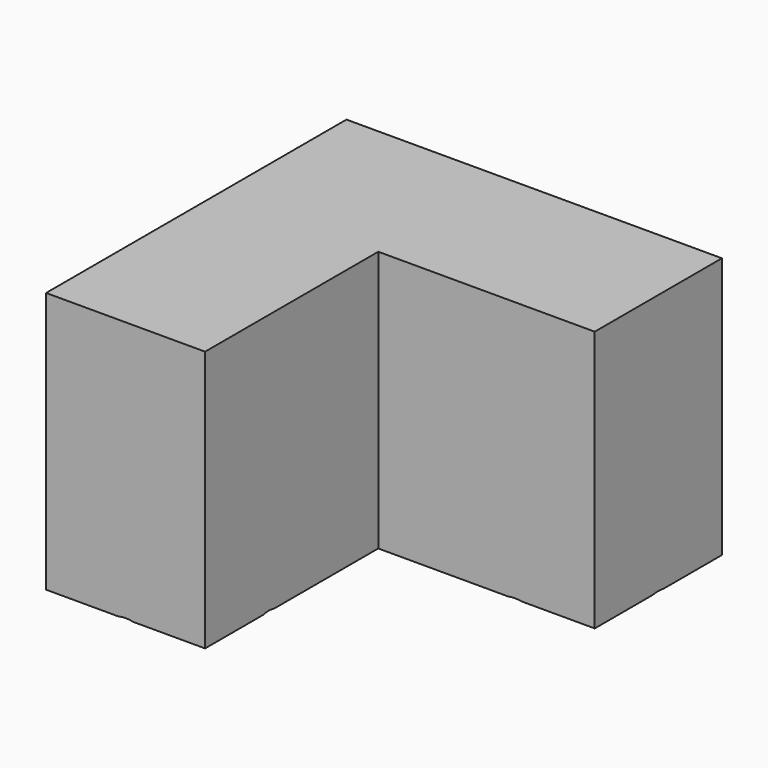
from build123d import *

# Parameters (mm, degrees)
F0_W     = 10.65
F0_H     = 10.7820915088
F0_H_2   = 10.5179084912
F1_DEPTH = 35
F5_R     = 3.7
F6_DEPTH = 25
F7_R     = 3.7
F8_DEPTH = 25


with BuildPart() as f1:
    # F0 (on Top) → F1 (new body)
    with BuildSketch(Plane.XY):
        with Locations((-5.325, 15.9089542456)):
            Rectangle(F0_W, F0_H)
        with Locations((5.325, 15.9089542456)):
            Rectangle(F0_W, F0_H)
        with BuildLine():
            Line((28.999999983, 21.3), (10.65, 21.3))
            Line((10.65, 21.3), (10.65, 10.5179084912))
            Line((10.65, 10.5179084912), (18.3508191943, 10.5179084912))
            ThreePointArc((18.3508191943, 10.5179084912), (21.4227552913, 18.1338400989), (28.999999983, 21.3))
        make_face()
        with BuildLine():
            Line((39.65, 21.3), (28.999999983, 21.3))
            ThreePointArc((28.999999983, 21.3), (36.5306872136, 18.1806872257), (39.65, 10.65))
            Line((39.65, 10.65), (39.65, 21.3))
        make_face()
        with BuildLine():
            Line((39.65, 0), (39.65, 10.65))
            ThreePointArc((39.65, 10.65), (36.5306872196, 3.1193127804), (29, 0))
            Line((29, 0), (39.65, 0))
        make_face()
        with BuildLine():
            Line((18.3508191943, 10.5179084912), (10.65, 10.5179084912))
            Line((10.65, 10.5179084912), (10.65, 0))
            Line((10.65, 0), (29, 0))
            ThreePointArc((29, 0), (21.5161598951, 3.0727552973), (18.3508191943, 10.5179084912))
        make_face()
        with Locations((5.325, 5.2589542456)):
            Rectangle(F0_W, F0_H_2)
        with Locations((-5.325, 5.2589542456)):
            Rectangle(F0_W, F0_H_2)
        with BuildLine():
            Line((0, 0), (-10.65, 0))
            Line((-10.65, 0), (-10.65, -18.3500000446))
            ThreePointArc((-10.65, -18.3500000446), (-7.5306872354, -10.8193127961), (0, -7.7))
            Line((0, -7.7), (0, 0))
        make_face()
        with BuildLine():
            Line((10.65, 0), (0, 0))
            Line((0, 0), (0, -7.7))
            ThreePointArc((0, -7.7), (7.5306872196, -10.8193127804), (10.65, -18.35))
            Line((10.65, -18.35), (10.65, 0))
        make_face()
        with BuildLine():
            ThreePointArc((0, -29), (-7.5306872039, -25.8806872354), (-10.65, -18.3500000446))
            Line((-10.65, -18.3500000446), (-10.65, -29))
            Line((-10.65, -29), (0, -29))
        make_face()
        with BuildLine():
            ThreePointArc((10.65, -18.35), (7.5306872196, -25.8806872196), (0, -29))
            Line((0, -29), (10.65, -29))
            Line((10.65, -29), (10.65, -18.35))
        make_face()
        with BuildLine():
            ThreePointArc((0, -7.7), (-7.5306872354, -10.8193127961), (-10.65, -18.3500000446))
            ThreePointArc((-10.65, -18.3500000446), (-7.5306872039, -25.8806872354), (0, -29))
            ThreePointArc((0, -29), (7.5306872196, -25.8806872196), (10.65, -18.35))
            ThreePointArc((10.65, -18.35), (7.5306872196, -10.8193127804), (0, -7.7))
        make_face()
        with BuildLine():
            ThreePointArc((39.65, 10.65), (36.5306872136, 18.1806872257), (28.999999983, 21.3))
            ThreePointArc((28.999999983, 21.3), (21.4227552913, 18.1338400989), (18.3508191943, 10.5179084912))
            ThreePointArc((18.3508191943, 10.5179084912), (21.5161598951, 3.0727552973), (29, 0))
            ThreePointArc((29, 0), (36.5306872196, 3.1193127804), (39.65, 10.65))
        make_face()
    extrude(amount=F1_DEPTH)

    # F2 (on Right) → F3 (revolve, cut)
    with BuildSketch(Plane.YZ):
        with BuildLine():
            Line((-18.35, 0), (-18.35, 8.7915472686))
            ThreePointArc((-18.35, 8.7915472686), (-24.8692408708, 5.8217661701), (-29.0438234806, 0))
            Line((-29.0438234806, 0), (-18.35, 0))
        make_face()
    revolve(axis=Axis((0, -18.35, 6.2414296837), (0, 0, 1)), mode=Mode.SUBTRACT)

    # F5 (on Top) → F6 (cut)
    with BuildSketch(Plane.XY):
        with Locations((0, -18.35)):
            Circle(F5_R)
    extrude(amount=F6_DEPTH, mode=Mode.SUBTRACT)

    # F7 (on Top) → F8 (cut)
    with BuildSketch(Plane.XY):
        with Locations((29.1118938476, 10.736274533)):
            Circle(F7_R)
    extrude(amount=F8_DEPTH, mode=Mode.SUBTRACT)

    # F9 (on offset) → F10 (revolve, cut)
    with BuildSketch(Plane.XZ.offset(-10.65)):
        with BuildLine():
            Line((18.3073151857, 0), (28.9965979755, 0))
            Line((28.9965979755, 0), (28.9965979755, 9.6057383344))
            ThreePointArc((28.9965979755, 9.6057383344), (22.567565814, 6.0095811507), (18.3073151857, 0))
        make_face()
    revolve(axis=Axis((28.9965979755, 10.65, 11.7063857615), (0, 0, 1)), mode=Mode.SUBTRACT)


solid = f1.part
